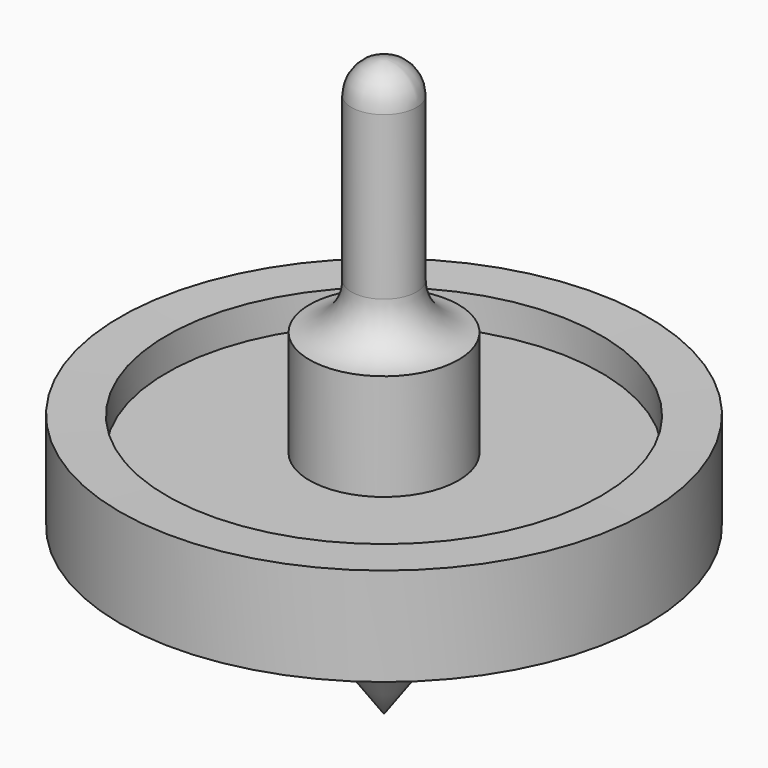
from build123d import *


with BuildPart() as f1:
    # F0 (on Front) → F1 (revolve)
    with BuildSketch(Plane.XZ):
        with BuildLine():
            Line((0, 41.022236), (0, 0))
            Line((0, 0), (5.29914, 7.481944))
            Line((5.29914, 7.481944), (5.29914, 14.096163))
            Line((5.29914, 14.096163), (15.43542, 14.096163))
            Line((15.43542, 14.096163), (15.43542, 11.767207))
            Line((15.43542, 11.767207), (18.75991, 11.767207))
            Line((18.75991, 11.767207), (18.75991, 18.740045))
            Line((18.75991, 18.740045), (15.43542, 18.667519))
            Line((15.43542, 18.667519), (15.43542, 16.338563))
            Line((15.43542, 16.338563), (5.29914, 16.338563))
            Line((5.29914, 16.338563), (5.29914, 23.888916))
            ThreePointArc((5.29914, 23.888916), (3.174044, 24.946497), (2.316395, 27.159855))
            Line((2.316395, 27.159855), (2.316395, 38.705841))
            ThreePointArc((2.316395, 38.705841), (1.637939, 40.34378), (0, 41.022236))
        make_face()
    revolve(axis=Axis((0, 0, 20.511118), (0, 0, -1)))


solid = f1.part
